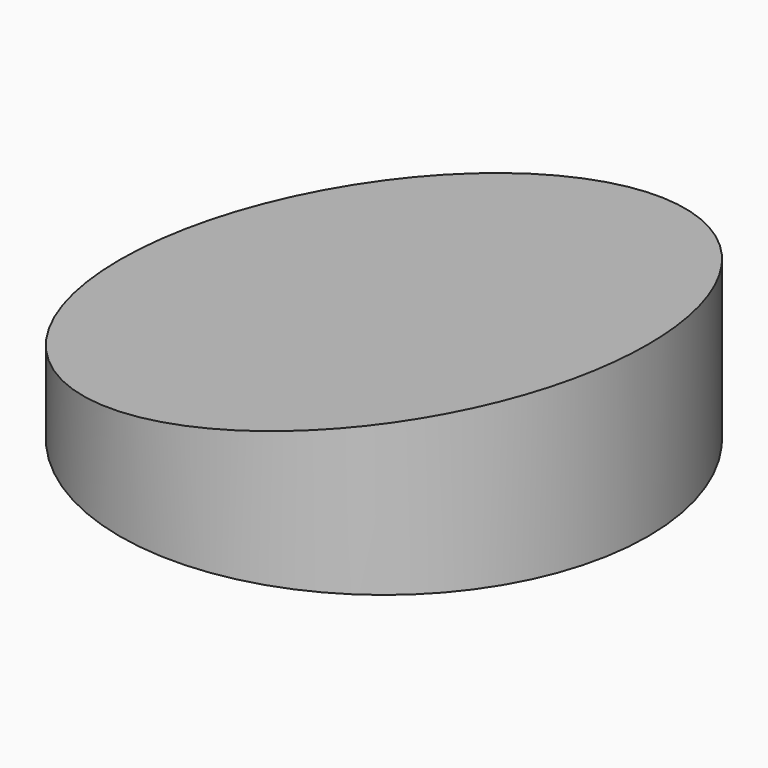
from build123d import *

# Parameters (mm, degrees)
F0_R          = 39.687205
F1_DEPTH      = 25.4
F3_DEPTH      = 39.688205
F3_DEPTH_BACK = 39.688205


with BuildPart() as f1:
    # F0 (on Top) → F1 (new body)
    with BuildSketch(Plane.XY):
        Circle(F0_R)
        Circle(F0_R)
    extrude(amount=F1_DEPTH)

    # F2 (on Front) → F3 (cut, two sides)
    with BuildSketch(Plane.XZ) as f3_sk:
        Polygon((-46.394929, 9.56874), (39.807133, 25.419498), (-46.394929, 31.824939), align=None)
    extrude(amount=F3_DEPTH, mode=Mode.SUBTRACT)
    extrude(f3_sk.sketch, amount=-F3_DEPTH_BACK, mode=Mode.SUBTRACT)


solid = f1.part
